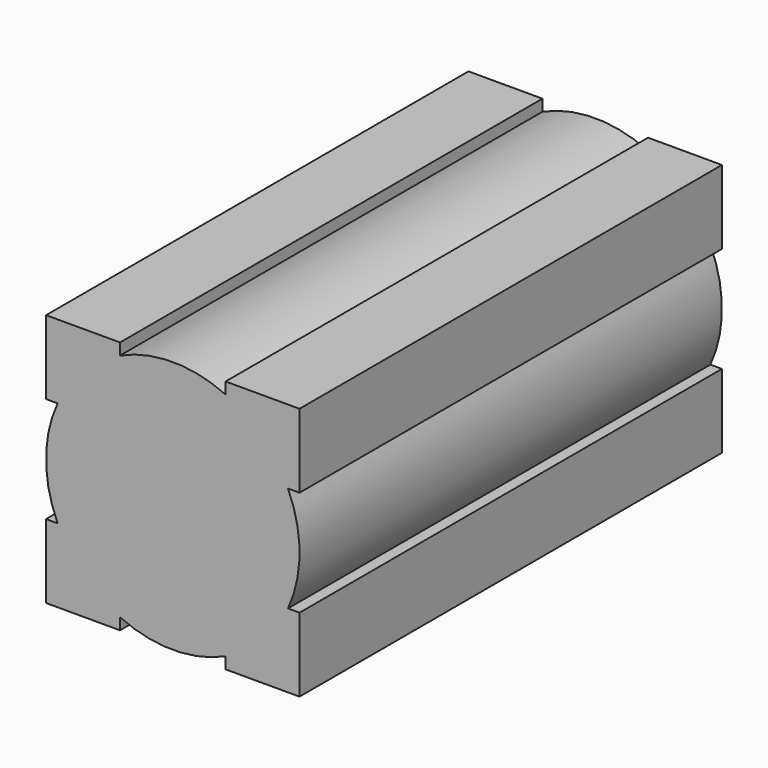
from build123d import *

# Parameters (mm, degrees)
F1_DEPTH = 250
F2_R     = 15
F3_DEPTH = 38


with BuildPart() as f1:
    # F0 (on Front) → F1 (new body)
    with BuildSketch(Plane.XZ):
        with BuildLine():
            Line((-60, 25), (-54.543561, 25))
            ThreePointArc((-54.543561, 25), (-60, 0), (-54.543561, -25))
            Line((-54.543561, -25), (-60, -25))
            Line((-60, -25), (-60, -60))
            Line((-60, -60), (-25, -60))
            Line((-25, -60), (-25, -54.543561))
            ThreePointArc((-25, -54.543561), (0, -60), (25, -54.543561))
            Line((25, -54.543561), (25, -60))
            Line((25, -60), (60, -60))
            Line((60, -60), (60, -25))
            Line((60, -25), (54.543561, -25))
            ThreePointArc((54.543561, -25), (60, 0), (54.543561, 25))
            Line((54.543561, 25), (60, 25))
            Line((60, 25), (60, 60))
            Line((60, 60), (25, 60))
            Line((25, 60), (25, 54.543561))
            ThreePointArc((25, 54.543561), (0, 60), (-25, 54.543561))
            Line((-25, 54.543561), (-25, 60))
            Line((-25, 60), (-60, 60))
            Line((-60, 60), (-60, 25))
        make_face()
    extrude(amount=F1_DEPTH)

    # F2 (on face) → F3 (join)
    with BuildSketch(Plane(origin=(0, 0, 0), x_dir=(-1, 0, 0), z_dir=(0, 1, 0))):
        Circle(F2_R)
    extrude(amount=F3_DEPTH)


solid = f1.part
